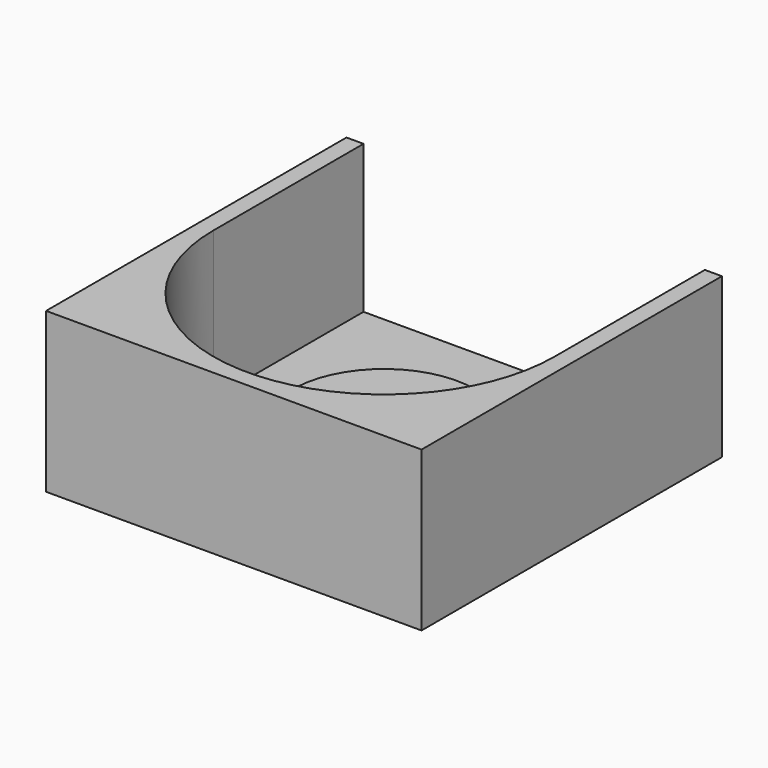
from build123d import *

# Parameters (mm, degrees)
F0_W     = 33
F0_H     = 33
F0_R     = 8
F1_DEPTH = 1
F2_DEPTH = 3
F4_DEPTH = 13


with BuildPart() as f1:
    # F0 (on Top) → F1 (new body)
    with BuildSketch(Plane.XY):
        Rectangle(F0_W, F0_H)
        Circle(F0_R, mode=Mode.SUBTRACT)
        Circle(F0_R)
    extrude(amount=-F1_DEPTH)

    # F0 (on Top) → F2 (join)
    with BuildSketch(Plane.XY):
        Circle(F0_R)
    extrude(amount=F2_DEPTH)

    # F3 (on face) → F4 (join)
    with BuildSketch(Plane.XY):
        with BuildLine():
            ThreePointArc((15, 0), (0, -15), (-15, 0))
            Line((-15, 0), (-15, 16.5))
            Line((-15, 16.5), (-16.5, 16.5))
            Line((-16.5, 16.5), (-16.5, -16.5))
            Line((-16.5, -16.5), (16.5, -16.5))
            Line((16.5, -16.5), (16.5, 16.5))
            Line((16.5, 16.5), (15, 16.5))
            Line((15, 16.5), (15, 0))
        make_face()
    extrude(amount=F4_DEPTH)


solid = f1.part
